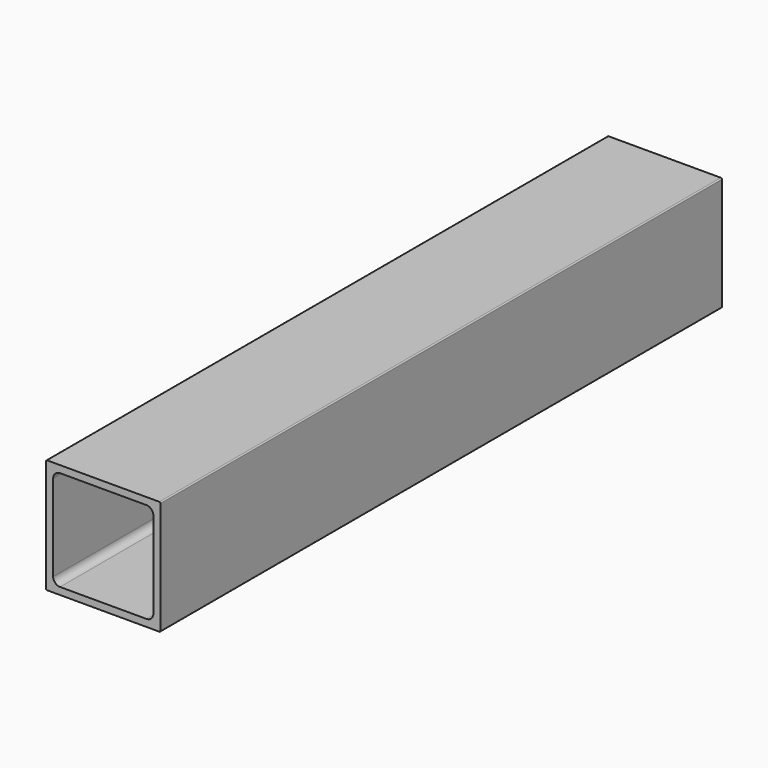
from build123d import *

# Parameters (mm, degrees)
F0_W     = 25.4
F0_H     = 25.4
F1_DEPTH = 155.8544
F2_W     = 22.2504
F2_H     = 22.2504
F3_DEPTH = 155.8544
F4_R     = 1.524
F5_R     = 0.254


with BuildPart() as f1:
    # F0 (on Front) → F1 (new body)
    with BuildSketch(Plane.XZ):
        Rectangle(F0_W, F0_H)
    extrude(amount=F1_DEPTH)

    # F2 (on face) → F3 (cut, through all)
    with BuildSketch(Plane.XZ.offset(155.8544)):
        Rectangle(F2_W, F2_H)
    extrude(amount=-F3_DEPTH, mode=Mode.SUBTRACT)

    # F4
    f4_edges = [f1.edges().sort_by_distance(p)[0] for p in [
        (-11.1252, -77.9272, 11.1252),
        (11.1252, -77.9272, -11.1252),
        (11.1252, -77.9272, 11.1252),
        (-11.1252, -77.9272, -11.1252),
    ]]
    fillet(f4_edges, radius=F4_R)

    # F5
    f5_edges = [f1.edges().sort_by_distance(p)[0] for p in [
        (12.7, -77.9272, 12.7),
        (12.7, -77.9272, -12.7),
        (-12.7, -77.9272, -12.7),
        (-12.7, -77.9272, 12.7),
    ]]
    fillet(f5_edges, radius=F5_R)


solid = f1.part
